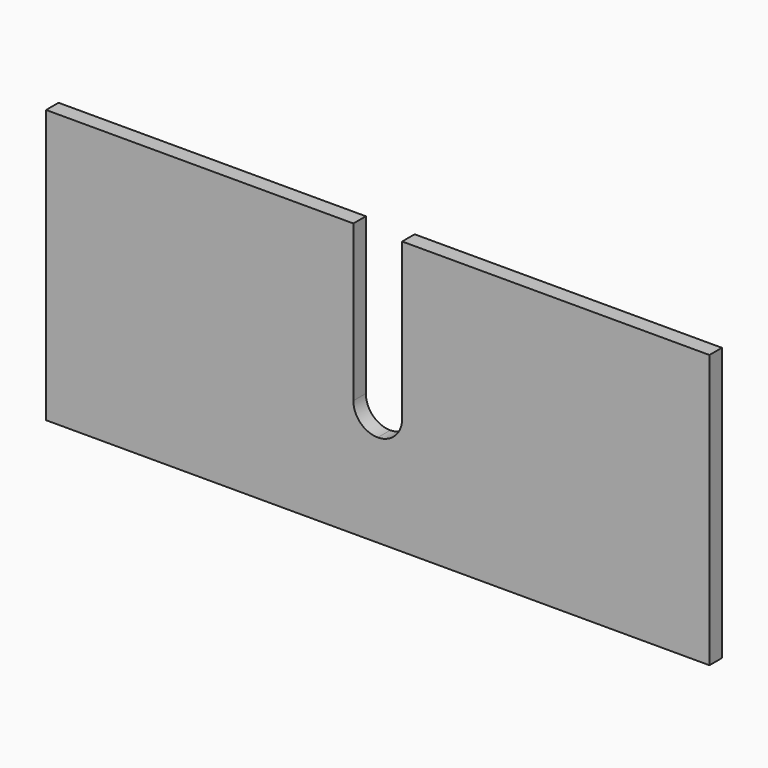
from build123d import *

# Parameters (mm, degrees)
F1_DEPTH = 10.16


with BuildPart() as f1:
    # F0 (on Front) → F1 (new body)
    with BuildSketch(Plane.XZ):
        with BuildLine():
            Line((0, 60.325), (0, 0))
            Line((0, 0), (215.9, 0))
            Line((215.9, 0), (215.9, 177.8))
            Line((215.9, 177.8), (15.875, 177.8))
            Line((15.875, 177.8), (15.875, 76.2))
            ThreePointArc((15.875, 76.2), (11.22532, 64.97468), (0, 60.325))
        make_face()
    extrude(amount=F1_DEPTH)

    # F2: F1 across plane


with BuildPart() as f1_1:
    add(f1.part)
    add(f1.part.mirror(Plane.YZ))


solid = f1_1.part
